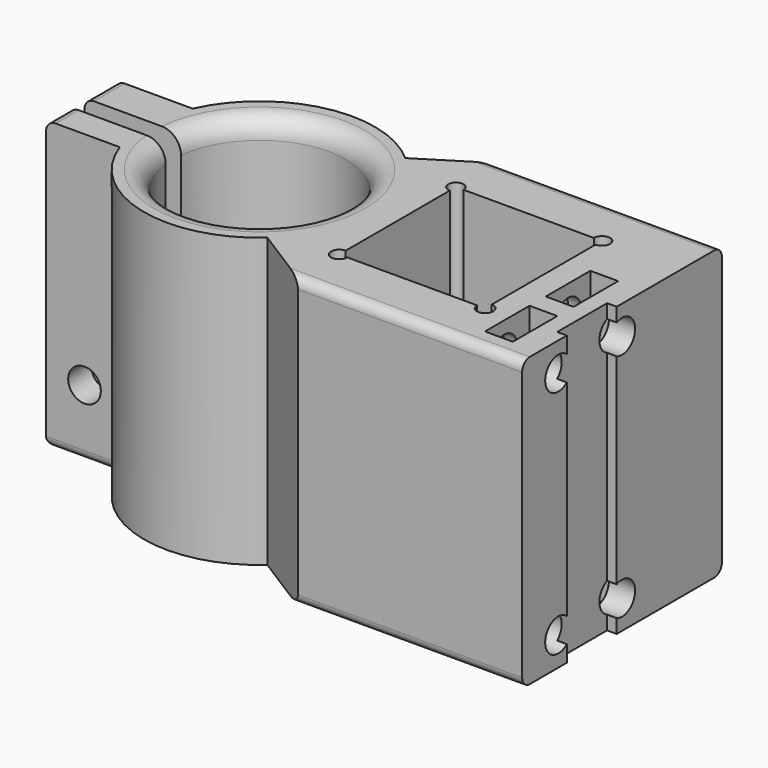
from build123d import *

# Parameters (mm, degrees)
SKETCH_W        = 56.771899
SKETCH_H        = 26
PAD_DEPTH       = 30
SKETCH001_W     = 15.2
SKETCH001_H     = 15.2
POCKET_DEPTH    = 30.001
SKETCH002_R     = 0.848528
SKETCH002_R_2   = 0.793369
POCKET001_DEPTH = 30.001
SKETCH003_W     = 2.8
SKETCH003_H     = 5.6
POCKET002_DEPTH = 6
SKETCH004_R     = 1.7
POCKET003_DEPTH = 7
SKETCH007_W     = 2.9
SKETCH007_H     = 5.8
POCKET004_DEPTH = 7
SKETCH008_W     = 6.5
SKETCH008_H     = 34.424917
POCKET005_DEPTH = 1
POCKET006_DEPTH = 2
SKETCH005_R     = 1.7
POCKET007_DEPTH = 17.001
FILLET_R        = 1
FILLET001_R     = 1
FILLET002_R     = 2


with BuildPart() as part:
    # Sketch → Pad (new body)
    with BuildSketch(Plane.XY):
        with Locations((-12.614051, 0)):
            Rectangle(SKETCH_W, SKETCH_H)
    extrude(amount=PAD_DEPTH)

    # Sketch001 → Pocket (cut, through all)
    with BuildSketch(Plane(origin=(0, 0, 0), x_dir=(1, 0, 0), z_dir=(0, 0, -1))):
        Rectangle(SKETCH001_W, SKETCH001_H)
        with BuildLine():
            ThreePointArc((-30.947343, -1), (-13.000044, -0.055902), (-30.941113, 1))
            Line((-42, 1), (-30.941113, 1))
            Line((-42, -1), (-42, 1))
            Line((-30.947343, -1), (-42, -1))
        make_face()
        with BuildLine():
            ThreePointArc((-14, 8.944272), (-24.9794, 11.617839), (-33.325879, 4))
            Line((-43, 4), (-33.325879, 4))
            Line((-43, 4), (-43, 14))
            Line((-43, 14), (-6, 14))
            Line((-6, 14), (-14, 8.944272))
        make_face()
        with BuildLine():
            Line((-6, -14), (-43, -14))
            Line((-43, -14), (-43, -5))
            Line((-32.944272, -5), (-43, -5))
            ThreePointArc((-32.944272, -5), (-24.483382, -11.789328), (-14, -9))
            Line((-14, -9), (-6, -14))
        make_face()
    extrude(amount=-POCKET_DEPTH, mode=Mode.SUBTRACT)

    # Sketch002 → Pocket001 (cut, through all)
    with BuildSketch(Plane(origin=(0, 0, 0), x_dir=(1, 0, 0), z_dir=(0, 0, -1))):
        with Locations((7.6, -7.6)):
            Circle(SKETCH002_R)
        with Locations((-7.6, -7.6)):
            Circle(SKETCH002_R_2)
        with Locations((-7.6, 7.6)):
            Circle(SKETCH002_R)
        with Locations((7.6, 7.6)):
            Circle(SKETCH002_R)
    extrude(amount=-POCKET001_DEPTH, mode=Mode.SUBTRACT)

    # Sketch003 → Pocket002 (cut)
    with BuildSketch(Plane(origin=(0, 0, 0), x_dir=(1, 0, 0), z_dir=(0, 0, -1))):
        with Locations((11.652548, 8.414147)):
            Rectangle(SKETCH003_W, SKETCH003_H)
        with Locations((11.645413, -0.129832)):
            Rectangle(SKETCH003_W, SKETCH003_H)
    extrude(amount=-POCKET002_DEPTH, mode=Mode.SUBTRACT)

    # Sketch004 → Pocket003 (cut)
    with BuildSketch(Plane.YZ.offset(15.771899)):
        with Locations((0, 3)):
            Circle(SKETCH004_R)
        with Locations((-8.3038, 3)):
            Circle(SKETCH004_R)
        with Locations((0, 27)):
            Circle(SKETCH004_R)
        with Locations((-8.3, 27)):
            Circle(SKETCH004_R)
    extrude(amount=-POCKET003_DEPTH, mode=Mode.SUBTRACT)

    # Sketch007 → Pocket004 (cut)
    with BuildSketch(Plane.XY.offset(30)):
        with Locations((11.597747, 0)):
            Rectangle(SKETCH007_W, SKETCH007_H)
        with Locations((11.580409, -7.890913)):
            Rectangle(SKETCH007_W, SKETCH007_H)
    extrude(amount=-POCKET004_DEPTH, mode=Mode.SUBTRACT)

    # Sketch008 → Pocket005 (cut)
    with BuildSketch(Plane.YZ.offset(15.771899)):
        with Locations((-3.946243, 14.212458)):
            Rectangle(SKETCH008_W, SKETCH008_H)
    extrude(amount=-POCKET005_DEPTH, mode=Mode.SUBTRACT)

    # Sketch006 → Pocket006 (cut)
    with BuildSketch(Plane(origin=(0, 5, 0), x_dir=(-1, 0, 0), z_dir=(0, 1, 0))):
        Polygon((39.8, 5.383419), (39.8, 8.616581), (37, 10.233162), (34.2, 8.616581), (34.2, 5.383419), (37, 3.766838), align=None)
    extrude(amount=-POCKET006_DEPTH, mode=Mode.SUBTRACT)

    # Sketch005 → Pocket007 (cut, through all)
    with BuildSketch(Plane.XZ.offset(4)):
        with Locations((-37, 7)):
            Circle(SKETCH005_R)
    extrude(amount=-POCKET007_DEPTH, mode=Mode.SUBTRACT)

    # Fillet
    fillet_edges = [part.edges().sort_by_distance(p)[0] for p in [
        (-41, -2.5, 0),
        (-41, 3, 0),
        (-41, 3, 30),
        (-41, -2.5, 30),
        (4.094768, -13, 0),
        (4.08595, 13, 0),
        (-37.162939, -4, 0),
        (-36.972136, 5, 0),
    ]]
    fillet(fillet_edges, radius=FILLET_R)

    # Fillet001
    fillet001_edges = [part.edges().sort_by_distance(p)[0] for p in [
        (4.094768, -13, 30),
        (4.08595, 13, 30),
    ]]
    fillet(fillet001_edges, radius=FILLET001_R)

    # Fillet002
    fillet002_edges = [part.edges().sort_by_distance(p)[0] for p in [
        (-13.000044, 0.055902, 30),
        (-13.000044, 0.055902, 0),
    ]]
    fillet(fillet002_edges, radius=FILLET002_R)


solid = part.part
